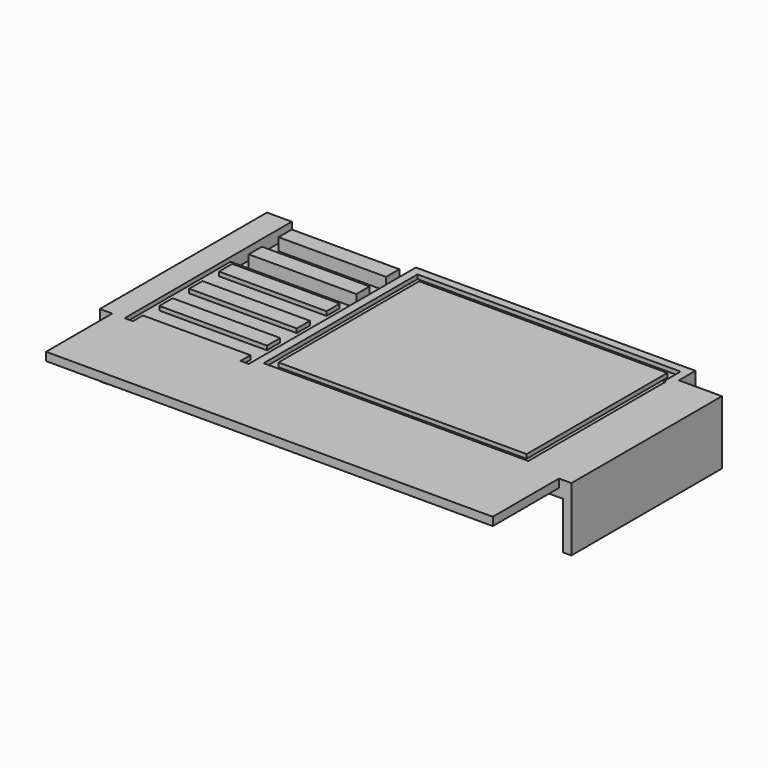
from build123d import *

# Parameters (mm, degrees)
BOX065_W               = 2
BOX065_H               = 1
BOX065_DEPTH           = 5.5
BOX065_PLACEMENT_ANGLE = 45
FILLET001_R            = 0.95
BOX066_W               = 2
BOX066_H               = 1
BOX066_DEPTH           = 5.5
BOX066_PLACEMENT_ANGLE = 45
FILLET002_R            = 0.95
BOX067_W               = 2
BOX067_H               = 1
BOX067_DEPTH           = 5.5
BOX067_PLACEMENT_ANGLE = 45
FILLET003_R            = 0.95
BOX068_W               = 2
BOX068_H               = 1
BOX068_DEPTH           = 5.5
BOX068_PLACEMENT_ANGLE = 45
FILLET004_R            = 0.95
BOX069_W               = 2
BOX069_H               = 1
BOX069_DEPTH           = 5.5
BOX069_PLACEMENT_ANGLE = 45
FILLET005_R            = 0.95
BOX070_W               = 2
BOX070_H               = 1
BOX070_DEPTH           = 5.5
BOX070_PLACEMENT_ANGLE = 45
FILLET006_R            = 0.95
BOX071_W               = 2
BOX071_H               = 1
BOX071_DEPTH           = 5.5
BOX071_PLACEMENT_ANGLE = 45
FILLET007_R            = 0.95
BOX072_W               = 2
BOX072_H               = 1
BOX072_DEPTH           = 5.5
BOX072_PLACEMENT_ANGLE = 45
FILLET008_R            = 0.95
BOX073_W               = 2
BOX073_H               = 1
BOX073_DEPTH           = 5.5
BOX073_PLACEMENT_ANGLE = 45
FILLET009_R            = 0.95
BOX074_W               = 2
BOX074_H               = 1
BOX074_DEPTH           = 5.5
BOX074_PLACEMENT_ANGLE = 45
FILLET010_R            = 0.95
BOX064_W               = 2
BOX064_H               = 1
BOX064_DEPTH           = 5.5
BOX064_PLACEMENT_ANGLE = 45
FILLET_R               = 0.95
BOX059_W               = 54
BOX059_H               = 10
BOX059_DEPTH           = 1
BOX041_W               = 32
BOX041_H               = 23.25
BOX041_DEPTH           = 0.5
BOX018_W               = 15
BOX018_H               = 16
BOX018_DEPTH           = 0.5
BOX019_W               = 15
BOX019_H               = 9.25
BOX019_DEPTH           = 1.5
BOX029_W               = 17
BOX029_H               = 9.25
BOX029_DEPTH           = 1.5
BOX010_W               = 10
BOX010_H               = 10
BOX010_DEPTH           = 10
BOX007_W               = 57
BOX007_H               = 25.25
BOX007_DEPTH           = 2
BOX062_W               = 5.2
BOX062_H               = 2.5
BOX062_DEPTH           = 7.7
BOX061_W               = 55
BOX061_H               = 24.25
BOX061_DEPTH           = 5.7
BOX060_W               = 57
BOX060_H               = 25.25
BOX060_DEPTH           = 5.7
BOX063_W               = 6.2
BOX063_H               = 3.5
BOX063_DEPTH           = 7.7
BOX017_W               = 30
BOX017_H               = 21.25
BOX017_DEPTH           = 0.5
BOX038_W               = 13
BOX038_H               = 2
BOX038_DEPTH           = 1.5
BOX035_W               = 13
BOX035_H               = 2
BOX035_DEPTH           = 1
BOX034_W               = 13
BOX034_H               = 2
BOX034_DEPTH           = 1
BOX032_W               = 13
BOX032_H               = 2
BOX032_DEPTH           = 1
BOX031_W               = 13
BOX031_H               = 1.5
BOX031_DEPTH           = 1
BOX040_W               = 13
BOX040_H               = 2
BOX040_DEPTH           = 1.5


with BuildPart() as fillet001:
    # Box065 → Box065 (new body)
    with BuildSketch(Plane.XY):
        with Locations((1, 0.5)):
            Rectangle(BOX065_W, BOX065_H)
    extrude(amount=BOX065_DEPTH)


with BuildPart() as fillet001_1:
    # Box065 placement: moved
    add(fillet001.part.moved(Location((5.5, 63.25, 1.5))).rotate(Axis((5.5, 63.25, 1.5), (0, 1, 0)), BOX065_PLACEMENT_ANGLE))

    # Fillet001
    fillet001_edges = [fillet001_1.edges().sort_by_distance(p)[0] for p in [
        (9.389087, 63.75, 5.389087),
        (5.5, 63.75, 1.5),
        (10.803301, 63.75, 3.974874),
        (6.914214, 63.75, 0.085786),
    ]]
    fillet(fillet001_edges, radius=FILLET001_R)


with BuildPart() as fillet002:
    # Box066 → Box066 (new body)
    with BuildSketch(Plane.XY):
        with Locations((1, 0.5)):
            Rectangle(BOX066_W, BOX066_H)
    extrude(amount=BOX066_DEPTH)


with BuildPart() as fillet002_1:
    # Box066 placement: moved
    add(fillet002.part.moved(Location((10, 63.25, 1.5))).rotate(Axis((10, 63.25, 1.5), (0, 1, 0)), BOX066_PLACEMENT_ANGLE))

    # Fillet002
    fillet002_edges = [fillet002_1.edges().sort_by_distance(p)[0] for p in [
        (13.889087, 63.75, 5.389087),
        (10, 63.75, 1.5),
        (15.303301, 63.75, 3.974874),
        (11.414214, 63.75, 0.085786),
    ]]
    fillet(fillet002_edges, radius=FILLET002_R)


with BuildPart() as fillet003:
    # Box067 → Box067 (new body)
    with BuildSketch(Plane.XY):
        with Locations((1, 0.5)):
            Rectangle(BOX067_W, BOX067_H)
    extrude(amount=BOX067_DEPTH)


with BuildPart() as fillet003_1:
    # Box067 placement: moved
    add(fillet003.part.moved(Location((14.5, 63.25, 1.5))).rotate(Axis((14.5, 63.25, 1.5), (0, 1, 0)), BOX067_PLACEMENT_ANGLE))

    # Fillet003
    fillet003_edges = [fillet003_1.edges().sort_by_distance(p)[0] for p in [
        (18.389087, 63.75, 5.389087),
        (14.5, 63.75, 1.5),
        (19.803301, 63.75, 3.974874),
        (15.914214, 63.75, 0.085786),
    ]]
    fillet(fillet003_edges, radius=FILLET003_R)


with BuildPart() as fillet004:
    # Box068 → Box068 (new body)
    with BuildSketch(Plane.XY):
        with Locations((1, 0.5)):
            Rectangle(BOX068_W, BOX068_H)
    extrude(amount=BOX068_DEPTH)


with BuildPart() as fillet004_1:
    # Box068 placement: moved
    add(fillet004.part.moved(Location((19, 63.25, 1.5))).rotate(Axis((19, 63.25, 1.5), (0, 1, 0)), BOX068_PLACEMENT_ANGLE))

    # Fillet004
    fillet004_edges = [fillet004_1.edges().sort_by_distance(p)[0] for p in [
        (22.889087, 63.75, 5.389087),
        (19, 63.75, 1.5),
        (24.303301, 63.75, 3.974874),
        (20.414214, 63.75, 0.085786),
    ]]
    fillet(fillet004_edges, radius=FILLET004_R)


with BuildPart() as fillet005:
    # Box069 → Box069 (new body)
    with BuildSketch(Plane.XY):
        with Locations((1, 0.5)):
            Rectangle(BOX069_W, BOX069_H)
    extrude(amount=BOX069_DEPTH)


with BuildPart() as fillet005_1:
    # Box069 placement: moved
    add(fillet005.part.moved(Location((23.5, 63.25, 1.5))).rotate(Axis((23.5, 63.25, 1.5), (0, 1, 0)), BOX069_PLACEMENT_ANGLE))

    # Fillet005
    fillet005_edges = [fillet005_1.edges().sort_by_distance(p)[0] for p in [
        (27.389087, 63.75, 5.389087),
        (23.5, 63.75, 1.5),
        (28.803301, 63.75, 3.974874),
        (24.914214, 63.75, 0.085786),
    ]]
    fillet(fillet005_edges, radius=FILLET005_R)


with BuildPart() as fillet006:
    # Box070 → Box070 (new body)
    with BuildSketch(Plane.XY):
        with Locations((1, 0.5)):
            Rectangle(BOX070_W, BOX070_H)
    extrude(amount=BOX070_DEPTH)


with BuildPart() as fillet006_1:
    # Box070 placement: moved
    add(fillet006.part.moved(Location((28, 63.25, 1.5))).rotate(Axis((28, 63.25, 1.5), (0, 1, 0)), BOX070_PLACEMENT_ANGLE))

    # Fillet006
    fillet006_edges = [fillet006_1.edges().sort_by_distance(p)[0] for p in [
        (31.889087, 63.75, 5.389087),
        (28, 63.75, 1.5),
        (33.303301, 63.75, 3.974874),
        (29.414214, 63.75, 0.085786),
    ]]
    fillet(fillet006_edges, radius=FILLET006_R)


with BuildPart() as fillet007:
    # Box071 → Box071 (new body)
    with BuildSketch(Plane.XY):
        with Locations((1, 0.5)):
            Rectangle(BOX071_W, BOX071_H)
    extrude(amount=BOX071_DEPTH)


with BuildPart() as fillet007_1:
    # Box071 placement: moved
    add(fillet007.part.moved(Location((32.5, 63.25, 1.5))).rotate(Axis((32.5, 63.25, 1.5), (0, 1, 0)), BOX071_PLACEMENT_ANGLE))

    # Fillet007
    fillet007_edges = [fillet007_1.edges().sort_by_distance(p)[0] for p in [
        (36.389087, 63.75, 5.389087),
        (32.5, 63.75, 1.5),
        (37.803301, 63.75, 3.974874),
        (33.914214, 63.75, 0.085786),
    ]]
    fillet(fillet007_edges, radius=FILLET007_R)


with BuildPart() as fillet008:
    # Box072 → Box072 (new body)
    with BuildSketch(Plane.XY):
        with Locations((1, 0.5)):
            Rectangle(BOX072_W, BOX072_H)
    extrude(amount=BOX072_DEPTH)


with BuildPart() as fillet008_1:
    # Box072 placement: moved
    add(fillet008.part.moved(Location((37, 63.25, 1.5))).rotate(Axis((37, 63.25, 1.5), (0, 1, 0)), BOX072_PLACEMENT_ANGLE))

    # Fillet008
    fillet008_edges = [fillet008_1.edges().sort_by_distance(p)[0] for p in [
        (40.889087, 63.75, 5.389087),
        (37, 63.75, 1.5),
        (42.303301, 63.75, 3.974874),
        (38.414214, 63.75, 0.085786),
    ]]
    fillet(fillet008_edges, radius=FILLET008_R)


with BuildPart() as fillet009:
    # Box073 → Box073 (new body)
    with BuildSketch(Plane.XY):
        with Locations((1, 0.5)):
            Rectangle(BOX073_W, BOX073_H)
    extrude(amount=BOX073_DEPTH)


with BuildPart() as fillet009_1:
    # Box073 placement: moved
    add(fillet009.part.moved(Location((41.5, 63.25, 1.5))).rotate(Axis((41.5, 63.25, 1.5), (0, 1, 0)), BOX073_PLACEMENT_ANGLE))

    # Fillet009
    fillet009_edges = [fillet009_1.edges().sort_by_distance(p)[0] for p in [
        (45.389087, 63.75, 5.389087),
        (41.5, 63.75, 1.5),
        (46.803301, 63.75, 3.974874),
        (42.914214, 63.75, 0.085786),
    ]]
    fillet(fillet009_edges, radius=FILLET009_R)


with BuildPart() as fillet010:
    # Box074 → Box074 (new body)
    with BuildSketch(Plane.XY):
        with Locations((1, 0.5)):
            Rectangle(BOX074_W, BOX074_H)
    extrude(amount=BOX074_DEPTH)


with BuildPart() as fillet010_1:
    # Box074 placement: moved
    add(fillet010.part.moved(Location((46, 63.25, 1.5))).rotate(Axis((46, 63.25, 1.5), (0, 1, 0)), BOX074_PLACEMENT_ANGLE))

    # Fillet010
    fillet010_edges = [fillet010_1.edges().sort_by_distance(p)[0] for p in [
        (49.889087, 63.75, 5.389087),
        (46, 63.75, 1.5),
        (51.303301, 63.75, 3.974874),
        (47.414214, 63.75, 0.085786),
    ]]
    fillet(fillet010_edges, radius=FILLET010_R)


with BuildPart() as fusion028:
    # Box064 → Box064 (new body)
    with BuildSketch(Plane.XY):
        with Locations((1, 0.5)):
            Rectangle(BOX064_W, BOX064_H)
    extrude(amount=BOX064_DEPTH)


with BuildPart() as fusion028_1:
    # Box064 placement: moved
    add(fusion028.part.moved(Location((1, 63.25, 1.5))).rotate(Axis((1, 63.25, 1.5), (0, 1, 0)), BOX064_PLACEMENT_ANGLE))

    # Fillet
    fillet_edges = [fusion028_1.edges().sort_by_distance(p)[0] for p in [
        (4.889087, 63.75, 5.389087),
        (1, 63.75, 1.5),
        (6.303301, 63.75, 3.974874),
        (2.414214, 63.75, 0.085786),
    ]]
    fillet(fillet_edges, radius=FILLET_R)

    # Fusion028: union Fillet001, Fillet002, Fillet003, Fillet004, Fillet005, Fillet006, Fillet007, Fillet008, Fillet009, Fillet010
    add(fillet001_1.part)
    add(fillet002_1.part)
    add(fillet003_1.part)
    add(fillet004_1.part)
    add(fillet005_1.part)
    add(fillet006_1.part)
    add(fillet007_1.part)
    add(fillet008_1.part)
    add(fillet009_1.part)
    add(fillet010_1.part)


with BuildPart() as obj1:
    # Box059 → Box059 (new body)
    with BuildSketch(Plane(origin=(1.5, 29, 6.3), x_dir=(1, 0, 0), z_dir=(0, 0, 1))):
        with Locations((27, 5)):
            Rectangle(BOX059_W, BOX059_H)
    extrude(amount=BOX059_DEPTH)


with BuildPart() as obj2:
    # Box041 → Box041 (new body)
    with BuildSketch(Plane(origin=(19, 40, 6.8), x_dir=(1, 0, 0), z_dir=(0, 0, 1))):
        with Locations((16, 11.625)):
            Rectangle(BOX041_W, BOX041_H)
    extrude(amount=BOX041_DEPTH)


with BuildPart() as cube_cube_strips:
    # Box018 → Box018 (new body)
    with BuildSketch(Plane(origin=(3, 39, 6.8), x_dir=(1, 0, 0), z_dir=(0, 0, 1))):
        with Locations((7.5, 8)):
            Rectangle(BOX018_W, BOX018_H)
    extrude(amount=BOX018_DEPTH)


with BuildPart() as cube_cube_strip_top:
    # Box019 → Box019 (new body)
    with BuildSketch(Plane(origin=(3, 55, 5.8), x_dir=(1, 0, 0), z_dir=(0, 0, 1))):
        with Locations((7.5, 4.625)):
            Rectangle(BOX019_W, BOX019_H)
    extrude(amount=BOX019_DEPTH)


with BuildPart() as cube_cube_strip_top_outer:
    # Box029 → Box029 (new body)
    with BuildSketch(Plane(origin=(2, 55, 5.8), x_dir=(1, 0, 0), z_dir=(0, 0, 1))):
        with Locations((8.5, 4.625)):
            Rectangle(BOX029_W, BOX029_H)
    extrude(amount=BOX029_DEPTH)


with BuildPart() as cube_top_corner_cut:
    # Box010 → Box010 (new body)
    with BuildSketch(Plane(origin=(51.8, 61.75, 0), x_dir=(1, 0, 0), z_dir=(0, 0, 1))):
        with Locations((5, 5)):
            Rectangle(BOX010_W, BOX010_H)
    extrude(amount=BOX010_DEPTH)


with BuildPart() as cut024:
    # Box007 → Box007 (new body)
    with BuildSketch(Plane(origin=(0, 39, 5.3), x_dir=(1, 0, 0), z_dir=(0, 0, 1))):
        with Locations((28.5, 12.625)):
            Rectangle(BOX007_W, BOX007_H)
    extrude(amount=BOX007_DEPTH)

    # Cut006: cut Cube(top_corner_cut)
    add(cube_top_corner_cut.part, mode=Mode.SUBTRACT)

    # Fusion003: union Cube(cube_strip_top_outer)
    add(cube_cube_strip_top_outer.part)

    # Cut008: cut Cube(cube_strip_top)
    add(cube_cube_strip_top.part, mode=Mode.SUBTRACT)

    # Cut023: cut Cube(cube_strips)
    add(cube_cube_strips.part, mode=Mode.SUBTRACT)

    # Cut024: cut obj2)
    add(obj2.part, mode=Mode.SUBTRACT)


with BuildPart() as cube002_back_fill_outer_corner:
    # Box062 → Box062 (new body)
    with BuildSketch(Plane(origin=(51.8, 61.75, -0.4), x_dir=(1, 0, 0), z_dir=(0, 0, 1))):
        with Locations((2.6, 1.25)):
            Rectangle(BOX062_W, BOX062_H)
    extrude(amount=BOX062_DEPTH)


with BuildPart() as cube002_back_fill_inner:
    # Box061 → Box061 (new body)
    with BuildSketch(Plane(origin=(1, 39, -0.4), x_dir=(1, 0, 0), z_dir=(0, 0, 1))):
        with Locations((27.5, 12.125)):
            Rectangle(BOX061_W, BOX061_H)
    extrude(amount=BOX061_DEPTH)


with BuildPart() as cut021:
    # Box060 → Box060 (new body)
    with BuildSketch(Plane(origin=(0, 39, -0.4), x_dir=(1, 0, 0), z_dir=(0, 0, 1))):
        with Locations((28.5, 12.625)):
            Rectangle(BOX060_W, BOX060_H)
    extrude(amount=BOX060_DEPTH)

    # Cut021: cut Cube002(back_fill_inner)
    add(cube002_back_fill_inner.part, mode=Mode.SUBTRACT)


with BuildPart() as cut022:
    # Box063 → Box063 (new body)
    with BuildSketch(Plane(origin=(50.8, 60.75, -0.4), x_dir=(1, 0, 0), z_dir=(0, 0, 1))):
        with Locations((3.1, 1.75)):
            Rectangle(BOX063_W, BOX063_H)
    extrude(amount=BOX063_DEPTH)

    # Fusion025: union Cut021
    add(cut021.part)

    # Cut022: cut Cube002(back_fill_outer_corner)
    add(cube002_back_fill_outer_corner.part, mode=Mode.SUBTRACT)


with BuildPart() as obj3:
    # Box017 → Box017 (new body)
    with BuildSketch(Plane(origin=(20, 41, 6.8), x_dir=(1, 0, 0), z_dir=(0, 0, 1))):
        with Locations((15, 10.625)):
            Rectangle(BOX017_W, BOX017_H)
    extrude(amount=BOX017_DEPTH)


with BuildPart() as box038:
    # Box038 → Box038 (new body)
    with BuildSketch(Plane(origin=(4, 56.5, 5.8), x_dir=(1, 0, 0), z_dir=(0, 0, 1))):
        with Locations((6.5, 1)):
            Rectangle(BOX038_W, BOX038_H)
    extrude(amount=BOX038_DEPTH)


with BuildPart() as box035:
    # Box035 → Box035 (new body)
    with BuildSketch(Plane(origin=(4, 52, 6.3), x_dir=(1, 0, 0), z_dir=(0, 0, 1))):
        with Locations((6.5, 1)):
            Rectangle(BOX035_W, BOX035_H)
    extrude(amount=BOX035_DEPTH)


with BuildPart() as box034:
    # Box034 → Box034 (new body)
    with BuildSketch(Plane(origin=(4, 47.5, 6.3), x_dir=(1, 0, 0), z_dir=(0, 0, 1))):
        with Locations((6.5, 1)):
            Rectangle(BOX034_W, BOX034_H)
    extrude(amount=BOX034_DEPTH)


with BuildPart() as box032:
    # Box032 → Box032 (new body)
    with BuildSketch(Plane(origin=(4, 43, 6.3), x_dir=(1, 0, 0), z_dir=(0, 0, 1))):
        with Locations((6.5, 1)):
            Rectangle(BOX032_W, BOX032_H)
    extrude(amount=BOX032_DEPTH)


with BuildPart() as box031:
    # Box031 → Box031 (new body)
    with BuildSketch(Plane(origin=(4, 39, 6.3), x_dir=(1, 0, 0), z_dir=(0, 0, 1))):
        with Locations((6.5, 0.75)):
            Rectangle(BOX031_W, BOX031_H)
    extrude(amount=BOX031_DEPTH)


with BuildPart() as cut025:
    # Box040 → Box040 (new body)
    with BuildSketch(Plane(origin=(4, 61, 5.8), x_dir=(1, 0, 0), z_dir=(0, 0, 1))):
        with Locations((6.5, 1)):
            Rectangle(BOX040_W, BOX040_H)
    extrude(amount=BOX040_DEPTH)

    # Fusion024: union Box038, Box035, Box034, Box032, Box031
    add(box038.part)
    add(box035.part)
    add(box034.part)
    add(box032.part)
    add(box031.part)

    # Fusion027: union obj1), Cut024, Cut022, obj3)
    add(obj1.part)
    add(cut024.part)
    add(cut022.part)
    add(obj3.part)

    # Cut025: cut Fusion028
    add(fusion028_1.part, mode=Mode.SUBTRACT)


solid = cut025.part
